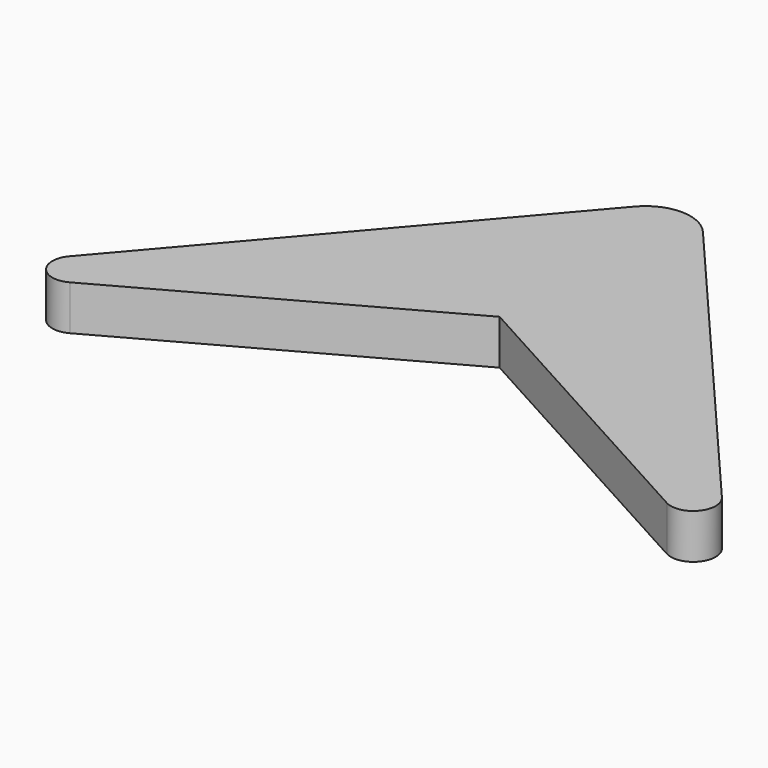
from build123d import *

# Parameters (mm, degrees)
F1_DEPTH = 3
F2_SCALE = 1.5


with BuildPart() as f1:
    # F0 (on Top) → F1 (new body)
    with BuildSketch(Plane.XY):
        with BuildLine():
            Line((-2.279421823, 14.1675013068), (-21.849297046, -8.7031758937))
            ThreePointArc((-21.849297046, -8.7031758937), (-21.8731761415, -10.6250020098), (-19.9867063483, -10.9927214012))
            Line((-19.9867063483, -10.9927214012), (0, 0))
            Line((0, 0), (19.9867063483, -10.9927214012))
            ThreePointArc((19.9867063483, -10.9927214012), (21.8731761415, -10.6250020098), (21.849297046, -8.7031758937))
            Line((21.849297046, -8.7031758937), (2.279421823, 14.1675013068))
            ThreePointArc((2.279421823, 14.1675013068), (0, 15.2170561903), (-2.279421823, 14.1675013068))
        make_face()
    extrude(amount=-F1_DEPTH)


with BuildPart() as f1_1:
    # F2: moved
    add(f1.part.scale(F2_SCALE))


solid = f1_1.part
